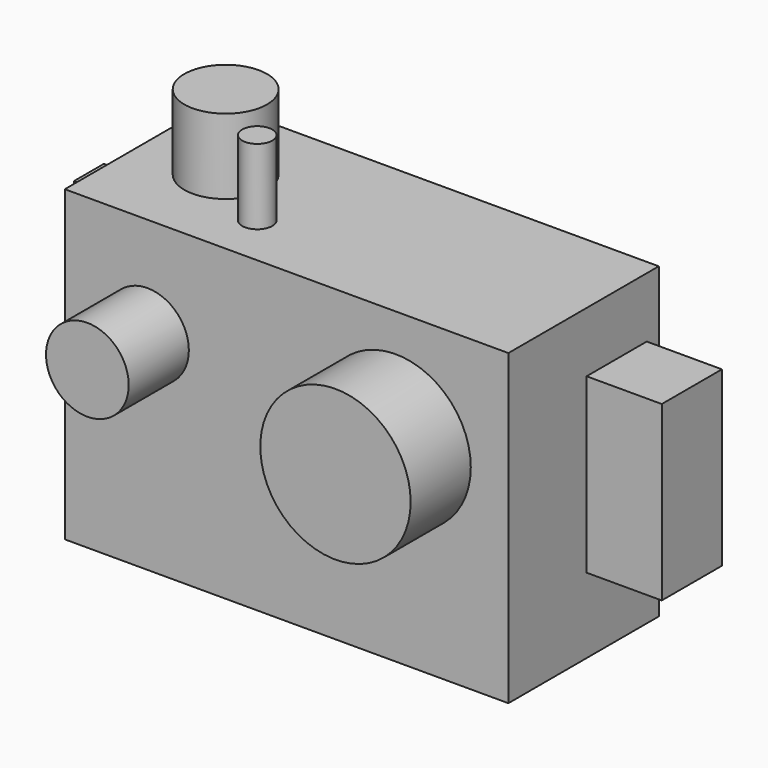
from build123d import *

# Parameters (mm, degrees)
F0_W     = 59
F0_H     = 41
F1_DEPTH = 25
F2_R     = 5.5
F2_R_2   = 10
F3_DEPTH = 10
F4_R     = 2
F4_R_2   = 5.5
F5_DEPTH = 10
F6_W     = 10
F6_H     = 23
F7_DEPTH = 10
F8_W     = 5
F8_H     = 25
F9_DEPTH = 10


with BuildPart() as f1:
    # F0 (on Front) → F1 (new body)
    with BuildSketch(Plane.XZ):
        with Locations((2.978919, 0.676766)):
            Rectangle(F0_W, F0_H)
    extrude(amount=F1_DEPTH)

    # F2 (on face) → F3 (join)
    with BuildSketch(Plane.XZ.offset(25)):
        with Locations((-15.521081, 7.676766)):
            Circle(F2_R)
        with Locations((17.478919, 6.176766)):
            Circle(F2_R_2)
    extrude(amount=F3_DEPTH)

    # F4 (on face) → F5 (join)
    with BuildSketch(Plane.XY.offset(21.176766)):
        with Locations((-6.521081, -18)):
            Circle(F4_R)
        with Locations((-15.521081, -12)):
            Circle(F4_R_2)
    extrude(amount=F5_DEPTH)

    # F6 (on face) → F7 (join)
    with BuildSketch(Plane.YZ.offset(32.478919)):
        with Locations((-7, 1.676766)):
            Rectangle(F6_W, F6_H)
    extrude(amount=F7_DEPTH)

    # F8 (on face) → F9 (join)
    with BuildSketch(Plane(origin=(-26.521081, 0, 0), x_dir=(0, -1, 0), z_dir=(-1, 0, 0))):
        with Locations((8.5, 0.676766)):
            Rectangle(F8_W, F8_H)
    extrude(amount=F9_DEPTH)


solid = f1.part
